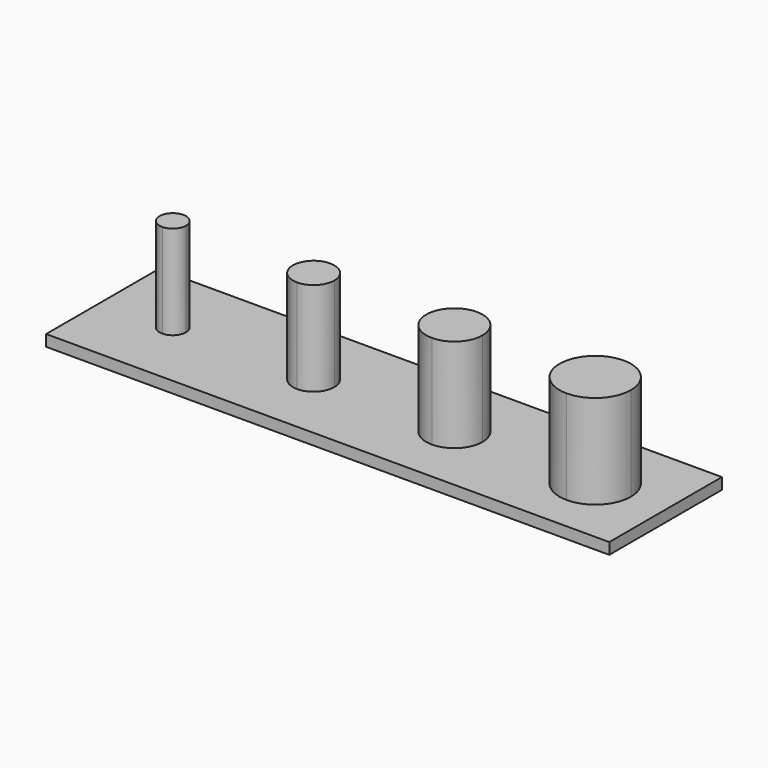
from build123d import *

# Parameters (mm, degrees)
F1_DEPTH = 1.2
F2_DEPTH = 11.2


with BuildPart() as f1:
    # F0 (on Top) → F1 (new body)
    with BuildSketch(Plane.XY):
        with BuildLine():
            Line((7.5, 0), (0, 0))
            Line((0, 0), (0, -7.5))
            Line((0, -7.5), (6.1, -7.5))
            ThreePointArc((6.1, -7.5), (6.5100505063, -6.5100505063), (7.5, -6.1))
            Line((7.5, -6.1), (7.5, 0))
        make_face()
        with BuildLine():
            Line((6.1, -7.5), (0, -7.5))
            Line((0, -7.5), (0, -15))
            Line((0, -15), (7.5, -15))
            Line((7.5, -15), (7.5, -8.9))
            ThreePointArc((7.5, -8.9), (6.5100505063, -8.4899494937), (6.1, -7.5))
        make_face()
        with BuildLine():
            Line((20.3, -7.5), (8.9, -7.5))
            ThreePointArc((8.9, -7.5), (8.4899494937, -8.4899494937), (7.5, -8.9))
            Line((7.5, -8.9), (7.5, -15))
            Line((7.5, -15), (22.5, -15))
            Line((22.5, -15), (22.5, -9.7))
            ThreePointArc((22.5, -9.7), (20.9443650814, -9.0556349186), (20.3, -7.5))
        make_face()
        with BuildLine():
            Line((22.5, 0), (7.5, 0))
            Line((7.5, 0), (7.5, -6.1))
            ThreePointArc((7.5, -6.1), (8.4899494937, -6.5100505063), (8.9, -7.5))
            Line((8.9, -7.5), (20.3, -7.5))
            ThreePointArc((20.3, -7.5), (20.9443650814, -5.9443650814), (22.5, -5.3))
            Line((22.5, -5.3), (22.5, 0))
        make_face()
        with BuildLine():
            Line((37.5, 0), (22.5, 0))
            Line((22.5, 0), (22.5, -5.3))
            ThreePointArc((22.5, -5.3), (24.0556349186, -5.9443650814), (24.7, -7.5))
            Line((24.7, -7.5), (34.5, -7.5))
            ThreePointArc((34.5, -7.5), (35.3786796564, -5.3786796564), (37.5, -4.5))
            Line((37.5, -4.5), (37.5, 0))
        make_face()
        with BuildLine():
            Line((34.5, -7.5), (24.7, -7.5))
            ThreePointArc((24.7, -7.5), (24.0556349186, -9.0556349186), (22.5, -9.7))
            Line((22.5, -9.7), (22.5, -15))
            Line((22.5, -15), (37.5, -15))
            Line((37.5, -15), (37.5, -10.5))
            ThreePointArc((37.5, -10.5), (35.3786796564, -9.6213203436), (34.5, -7.5))
        make_face()
        with BuildLine():
            Line((48.7, -7.5), (40.5, -7.5))
            ThreePointArc((40.5, -7.5), (39.6213203436, -9.6213203436), (37.5, -10.5))
            Line((37.5, -10.5), (37.5, -15))
            Line((37.5, -15), (52.5, -15))
            Line((52.5, -15), (52.5, -11.3))
            ThreePointArc((52.5, -11.3), (49.8129942315, -10.1870057685), (48.7, -7.5))
        make_face()
        with BuildLine():
            Line((52.5, 0), (37.5, 0))
            Line((37.5, 0), (37.5, -4.5))
            ThreePointArc((37.5, -4.5), (39.6213203436, -5.3786796564), (40.5, -7.5))
            Line((40.5, -7.5), (48.7, -7.5))
            ThreePointArc((48.7, -7.5), (49.8129942315, -4.8129942315), (52.5, -3.7))
            Line((52.5, -3.7), (52.5, 0))
        make_face()
        with BuildLine():
            Line((60, 0), (52.5, 0))
            Line((52.5, 0), (52.5, -3.7))
            ThreePointArc((52.5, -3.7), (55.1870057685, -4.8129942315), (56.3, -7.5))
            Line((56.3, -7.5), (60, -7.5))
            Line((60, -7.5), (60, 0))
        make_face()
        with BuildLine():
            Line((60, -15), (60, -7.5))
            Line((60, -7.5), (56.3, -7.5))
            ThreePointArc((56.3, -7.5), (55.1870057685, -10.1870057685), (52.5, -11.3))
            Line((52.5, -11.3), (52.5, -15))
            Line((52.5, -15), (60, -15))
        make_face()
    extrude(amount=F1_DEPTH)

    # F0 (on Top) → F2 (join)
    with BuildSketch(Plane.XY):
        with BuildLine():
            Line((7.5, -7.5), (7.5, -6.1))
            ThreePointArc((7.5, -6.1), (6.5100505063, -6.5100505063), (6.1, -7.5))
            Line((6.1, -7.5), (7.5, -7.5))
        make_face()
        with BuildLine():
            ThreePointArc((8.9, -7.5), (8.4899494937, -6.5100505063), (7.5, -6.1))
            Line((7.5, -6.1), (7.5, -7.5))
            Line((7.5, -7.5), (8.9, -7.5))
        make_face()
        with BuildLine():
            Line((8.9, -7.5), (7.5, -7.5))
            Line((7.5, -7.5), (7.5, -8.9))
            ThreePointArc((7.5, -8.9), (8.4899494937, -8.4899494937), (8.9, -7.5))
        make_face()
        with BuildLine():
            Line((7.5, -7.5), (6.1, -7.5))
            ThreePointArc((6.1, -7.5), (6.5100505063, -8.4899494937), (7.5, -8.9))
            Line((7.5, -8.9), (7.5, -7.5))
        make_face()
        with BuildLine():
            Line((22.5, -9.7), (22.5, -7.5))
            Line((22.5, -7.5), (20.3, -7.5))
            ThreePointArc((20.3, -7.5), (20.9443650814, -9.0556349186), (22.5, -9.7))
        make_face()
        with BuildLine():
            Line((22.5, -7.5), (22.5, -5.3))
            ThreePointArc((22.5, -5.3), (20.9443650814, -5.9443650814), (20.3, -7.5))
            Line((20.3, -7.5), (22.5, -7.5))
        make_face()
        with BuildLine():
            ThreePointArc((24.7, -7.5), (24.0556349186, -5.9443650814), (22.5, -5.3))
            Line((22.5, -5.3), (22.5, -7.5))
            Line((22.5, -7.5), (24.7, -7.5))
        make_face()
        with BuildLine():
            Line((24.7, -7.5), (22.5, -7.5))
            Line((22.5, -7.5), (22.5, -9.7))
            ThreePointArc((22.5, -9.7), (24.0556349186, -9.0556349186), (24.7, -7.5))
        make_face()
        with BuildLine():
            ThreePointArc((40.5, -7.5), (39.6213203436, -5.3786796564), (37.5, -4.5))
            Line((37.5, -4.5), (37.5, -7.5))
            Line((37.5, -7.5), (40.5, -7.5))
        make_face()
        with BuildLine():
            Line((37.5, -7.5), (37.5, -4.5))
            ThreePointArc((37.5, -4.5), (35.3786796564, -5.3786796564), (34.5, -7.5))
            Line((34.5, -7.5), (37.5, -7.5))
        make_face()
        with BuildLine():
            Line((37.5, -10.5), (37.5, -7.5))
            Line((37.5, -7.5), (34.5, -7.5))
            ThreePointArc((34.5, -7.5), (35.3786796564, -9.6213203436), (37.5, -10.5))
        make_face()
        with BuildLine():
            Line((40.5, -7.5), (37.5, -7.5))
            Line((37.5, -7.5), (37.5, -10.5))
            ThreePointArc((37.5, -10.5), (39.6213203436, -9.6213203436), (40.5, -7.5))
        make_face()
        with BuildLine():
            Line((52.5, -11.3), (52.5, -7.5))
            Line((52.5, -7.5), (48.7, -7.5))
            ThreePointArc((48.7, -7.5), (49.8129942315, -10.1870057685), (52.5, -11.3))
        make_face()
        with BuildLine():
            Line((52.5, -7.5), (52.5, -3.7))
            ThreePointArc((52.5, -3.7), (49.8129942315, -4.8129942315), (48.7, -7.5))
            Line((48.7, -7.5), (52.5, -7.5))
        make_face()
        with BuildLine():
            ThreePointArc((56.3, -7.5), (55.1870057685, -4.8129942315), (52.5, -3.7))
            Line((52.5, -3.7), (52.5, -7.5))
            Line((52.5, -7.5), (56.3, -7.5))
        make_face()
        with BuildLine():
            Line((56.3, -7.5), (52.5, -7.5))
            Line((52.5, -7.5), (52.5, -11.3))
            ThreePointArc((52.5, -11.3), (55.1870057685, -10.1870057685), (56.3, -7.5))
        make_face()
    extrude(amount=F2_DEPTH)


solid = f1.part
